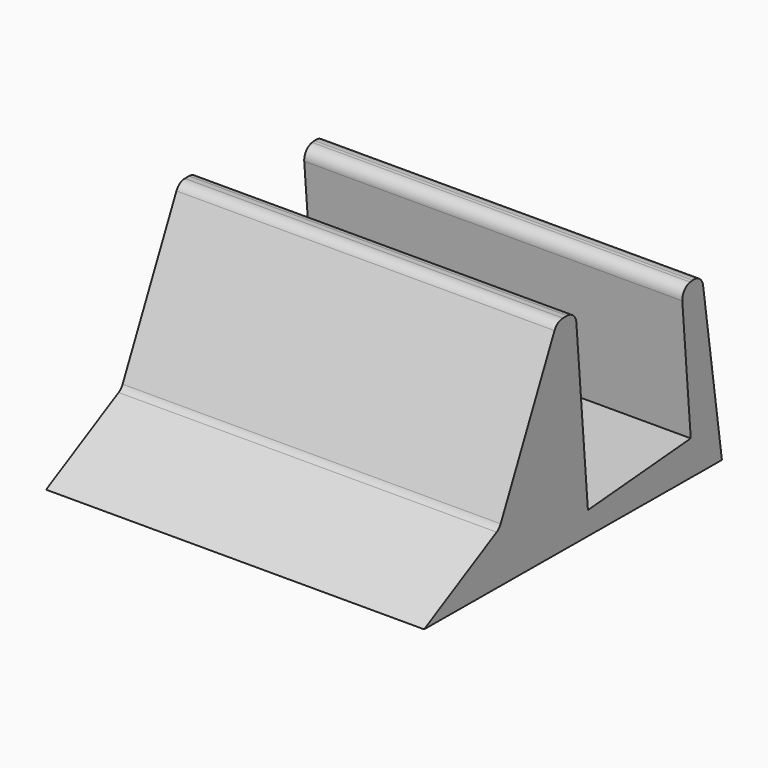
from build123d import *

# Parameters (mm, degrees)
F1_DEPTH = 65
F2_R     = 2


with BuildPart() as f1:
    # F0 (on Right) → F1 (new body)
    with BuildSketch(Plane.YZ):
        Polygon((135.922354, 33.429554), (137.901912, 10), (115.797695, 8.13242), (113.158862, 39.365004), (109.158862, 39.365004), (96.764817, 13.074924), (80.600046, 4.390758), (144.600046, 4), (140.269462, 34.055904), align=None)
    extrude(amount=F1_DEPTH)

    # F2
    f2_edges = [f1.edges().sort_by_distance(p)[0] for p in [
        (32.5, 109.158862, 39.365004),
        (32.5, 113.158862, 39.365004),
        (32.5, 135.922354, 33.429554),
        (32.5, 140.269462, 34.055904),
        (32.5, 96.764817, 13.074924),
    ]]
    fillet(f2_edges, radius=F2_R)


solid = f1.part
